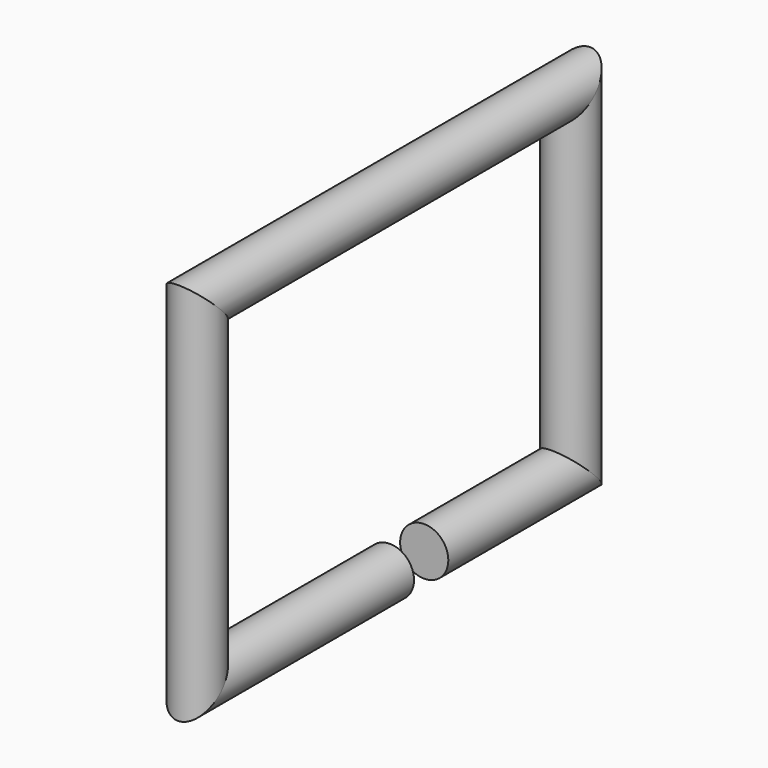
from build123d import *

# Parameters (mm, degrees)
F0_R = 0.889


with BuildPart() as f2:
    # F2: sweep along a path in F1
    with BuildLine(Plane.YZ) as f2_path:
        Line((0, 0), (-8.89, 0))
        Line((-8.89, 0), (-8.89, 12.3805519523))
        Line((-8.89, 12.3805519523), (8.3446010148, 12.3805519523))
        Line((8.3446010148, 12.3805519523), (8.3446010148, 0))
        Line((8.3446010148, 0), (1.5816572689, 0))
    # F0 (on Front) → F2 (sweep)
    with BuildSketch(Plane.XZ):
        Circle(F0_R)
    sweep(path=f2_path.line, transition=Transition.RIGHT)


solid = f2.part
